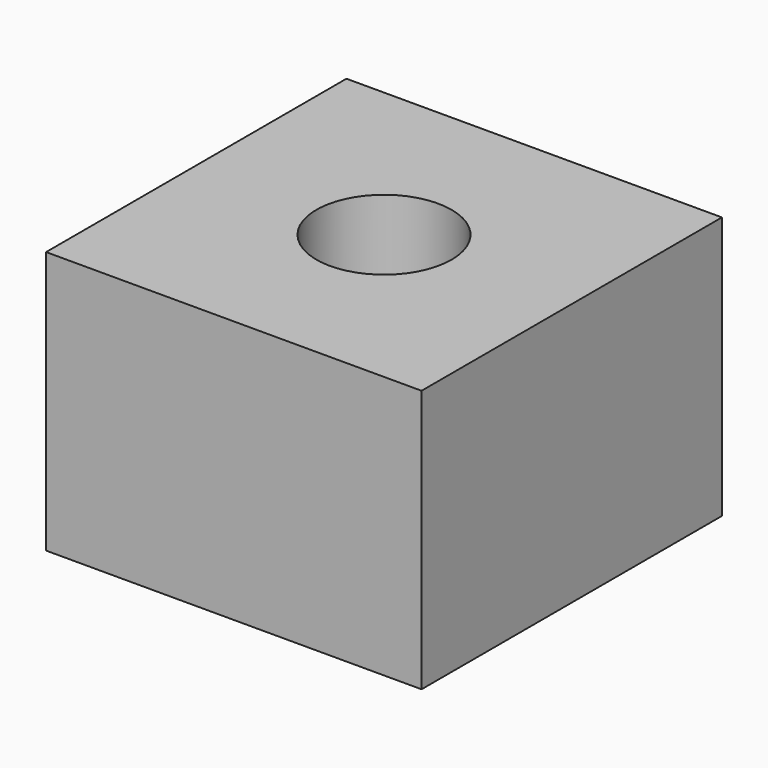
from build123d import *

# Parameters (mm, degrees)
CYLINDER012_R     = 0.9
CYLINDER012_DEPTH = 3.5
BOX039_W          = 5
BOX039_H          = 5
BOX039_DEPTH      = 3.5


with BuildPart() as anchorscrew:
    # Cylinder012 → Cylinder012 (new body)
    with BuildSketch(Plane(origin=(2.5, 2.5, 0), x_dir=(1, 0, 0), z_dir=(0, 0, 1))):
        Circle(CYLINDER012_R)
    extrude(amount=CYLINDER012_DEPTH)


with BuildPart() as anchor:
    # Box039 → Box039 (new body)
    with BuildSketch(Plane.XY):
        with Locations((2.5, 2.5)):
            Rectangle(BOX039_W, BOX039_H)
    extrude(amount=BOX039_DEPTH)

    # Cut010: cut AnchorScrew
    add(anchorscrew.part, mode=Mode.SUBTRACT)


solid = anchor.part
